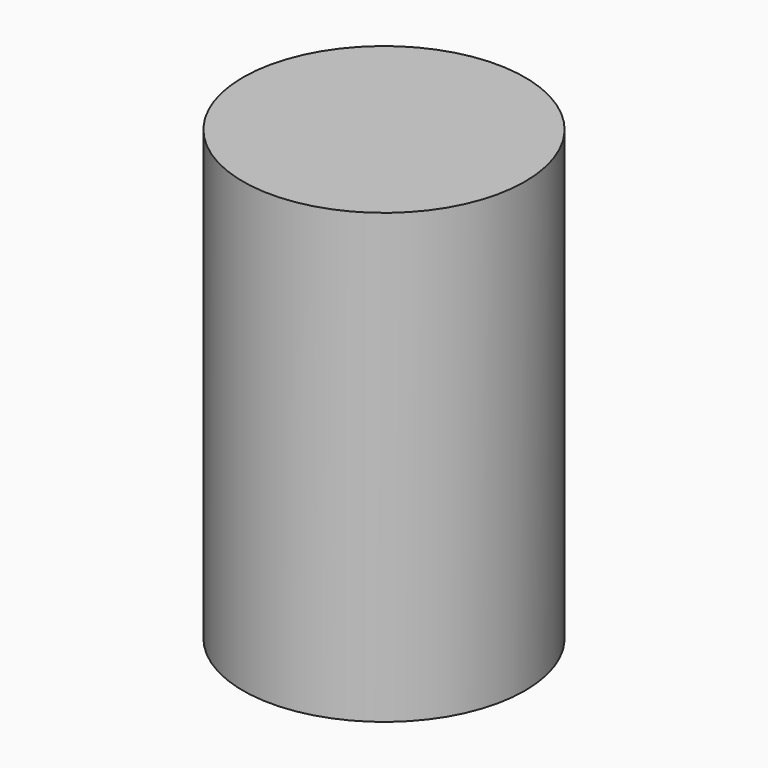
from build123d import *

# Parameters (mm, degrees)
F0_R     = 20.227026
F1_DEPTH = 64.25944


with BuildPart() as f1:
    # F0 (on Top) → F1 (new body)
    with BuildSketch(Plane.XY):
        with Locations((-28.779462, 15.031308)):
            Circle(F0_R)
    extrude(amount=-F1_DEPTH)


solid = f1.part
